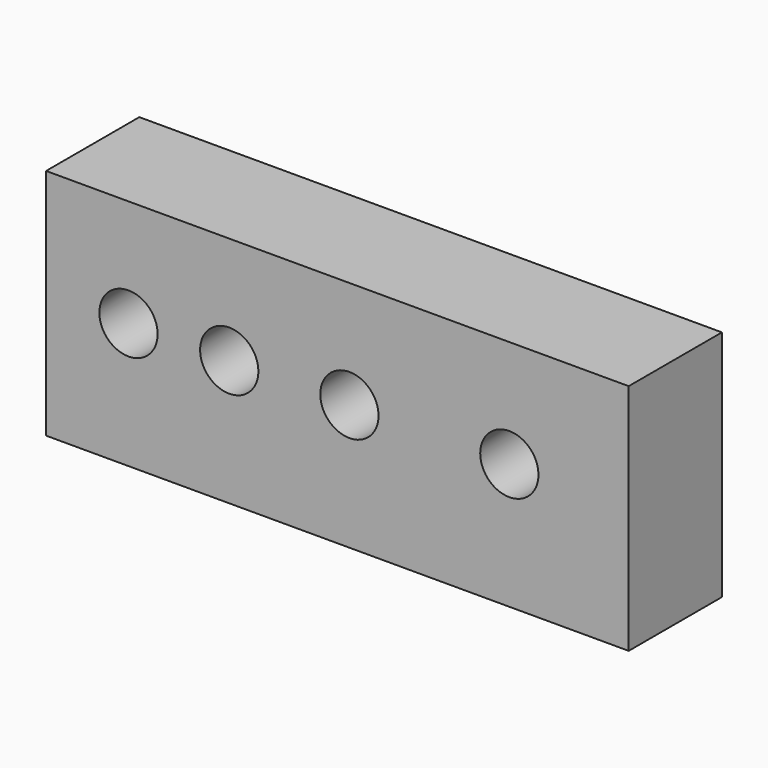
from build123d import *

# Parameters (mm, degrees)
F0_W           = 127
F0_H           = 50.8
F1_DEPTH       = 25.4
F3_D           = 12.7
F3_DEPTH       = 12.7
F3_CBORE_D     = 12.7
F3_CBORE_DEPTH = 6.35
F3_TIP         = 3.8154649308
F4_D           = 12.7
F5_D           = 12.7
F6_D           = 12.7


with BuildPart() as f1:
    # F0 (on Front) → F1 (new body)
    with BuildSketch(Plane.XZ):
        with Locations((63.5, 25.4)):
            Rectangle(F0_W, F0_H)
    extrude(amount=F1_DEPTH)

    # F3
    with Locations(Plane.XZ.offset(25.4)):
        with Locations((17.9662257433, 27.3820236325)):
            CounterBoreHole(F3_D / 2, F3_CBORE_D / 2, F3_CBORE_DEPTH, depth=F3_DEPTH)
            with Locations((0, 0, -(F3_DEPTH + F3_TIP / 2))):  # 118° drill point
                Cone(0, F3_D / 2, F3_TIP, mode=Mode.SUBTRACT)

    # F4 (through all)
    with Locations(Plane.XZ.offset(25.4)):
        with Locations((39.9235635996, 27.3820236325)):
            Hole(F4_D / 2)

    # F5 (through all)
    with Locations(Plane.XZ.offset(25.4)):
        with Locations((66.1182850599, 27.3820236325)):
            Hole(F5_D / 2)

    # F6 (through all)
    with Locations(Plane.XZ.offset(25.4)):
        with Locations((100.9803712368, 27.3820236325)):
            Hole(F6_D / 2)


solid = f1.part
